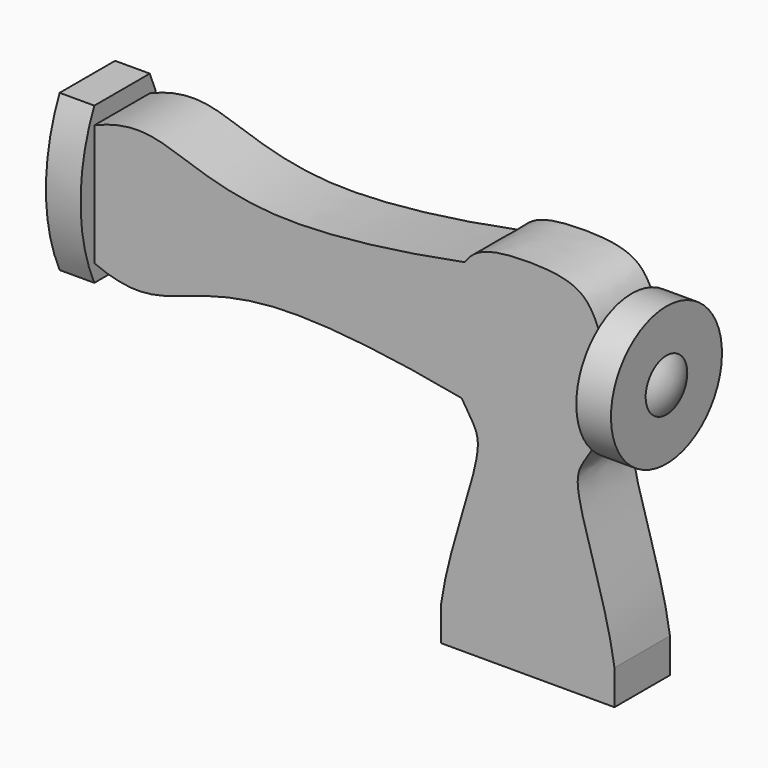
from build123d import *

# Parameters (mm, degrees)
F1_DEPTH = 12.7
F6_DEPTH = 6.35


with BuildPart() as f1:
    # F0 (on Front) → F1 (new body)
    with BuildSketch(Plane.XZ):
        with BuildLine():
            Line((-15.875, 0), (0, 0))
            Line((0, 0), (15.875, 0))
            Line((15.875, 0), (15.875, 6.35))
            add(Edge.make_bspline(
                [(15.875, 6.35), (14.3420179327, 17.0394802796), (5.8813492916, 36.6883459695), (11.1821779514, 38.0381281856), (14.6685008157, 45.5612496266)],
                knots=[0, 0, 0, 0, 0.598491381, 1, 1, 1, 1], degree=3))
            Line((14.6685008157, 45.5612496266), (14.6685008157, 53.8162496266))
            add(Edge.make_bspline(
                [(14.6685008157, 53.8162496266), (13.6060252977, 58.4911509281), (11.9683632001, 63.5751361722), (7.8926925483, 66.675), (0, 66.675)],
                knots=[0, 0, 0, 0, 0.4698465014, 1, 1, 1, 1], degree=3))
            add(Edge.make_bspline(
                [(-11.5289213136, 62.830530107), (-10.0534236035, 65.0315963465), (-7.8926925483, 66.675), (0, 66.675)],
                knots=[0.4698465014, 0.4698465014, 0.4698465014, 0.4698465014, 1, 1, 1, 1], degree=3))
            add(Edge.make_bspline(
                [(-11.5289213136, 62.830530107), (-21.9231955091, 60.7749481925), (-45.6366234217, 57.1819541314), (-63.4040143954, 62.7706953829), (-71.9872220853, 65.9773216858), (-79.375, 62.830530107)],
                knots=[0, 0, 0, 0, 0.4160850402, 0.7147230898, 1, 1, 1, 1], degree=3))
            Line((-79.375, 62.830530107), (-79.375, 40.605530107))
            add(Edge.make_bspline(
                [(-12.1110297993, 40.7199813665), (-22.4342460064, 42.7378543308), (-45.7738037723, 46.2109559383), (-63.4040143954, 40.6653648311), (-71.9872220853, 37.4587385283), (-79.375, 40.605530107)],
                knots=[0.0077209057, 0.0077209057, 0.0077209057, 0.0077209057, 0.4160850402, 0.7147230898, 1, 1, 1, 1], degree=3))
            add(Edge.make_bspline(
                [(-15.875, 6.35), (-14.3420179327, 17.0394802796), (-6.8186021949, 34.5116910034), (-10.176628142, 37.5145162123), (-12.111029794, 40.7199813758)],
                knots=[0, 0, 0, 0, 0.598491381, 0.8892223602, 0.8892223602, 0.8892223602, 0.8892223602], degree=3))
            Line((-15.875, 6.35), (-15.875, 0))
        make_face()
    extrude(amount=F1_DEPTH)

    # F3 (on offset) → F4 (revolve)
    with BuildSketch(Plane.XZ.offset(6.35)):
        with BuildLine():
            Line((13.9643816114, 63.5), (13.9643816114, 50.8))
            Line((13.9643816114, 50.8), (21.9018816114, 50.8))
            ThreePointArc((21.9018816114, 50.8), (21.4945552896, 53.3100578928), (20.3143816114, 55.5625))
            Line((20.3143816114, 55.5625), (20.3143816114, 63.5))
            Line((20.3143816114, 63.5), (13.9643816114, 63.5))
        make_face()
    revolve(axis=Axis((17.9331316114, -6.35, 50.8), (1, 0, 0)))

    # F5 (on face) → F6 (join)
    with BuildSketch(Plane(origin=(-79.375, 0, 0), x_dir=(0, -1, 0), z_dir=(-1, 0, 0))):
        with BuildLine():
            Line((12.7, 66.005530107), (6.35, 66.005530107))
            Line((6.35, 66.005530107), (0, 66.005530107))
            ThreePointArc((0, 66.005530107), (-3.1411550024, 51.718030107), (0, 37.430530107))
            Line((0, 37.430530107), (6.35, 37.430530107))
            Line((6.35, 37.430530107), (12.7, 37.430530107))
            ThreePointArc((12.7, 37.430530107), (15.8411550024, 51.718030107), (12.7, 66.005530107))
        make_face()
    extrude(amount=F6_DEPTH)


solid = f1.part
